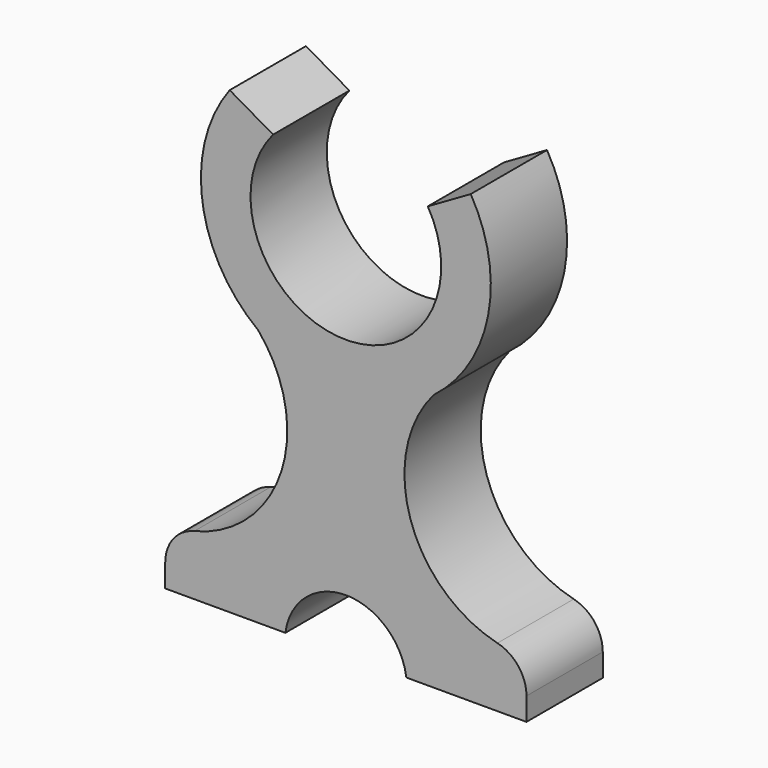
from build123d import *

# Parameters (mm, degrees)
F1_DEPTH = 25
F2_DEPTH = 25


with BuildPart() as f1:
    # F0 (on Front) → F1 (new body)
    with BuildSketch(Plane.XZ):
        with BuildLine():
            Line((-19.074309, 65.558379), (-30.452423, 72.127536))
            ThreePointArc((-30.452423, 72.127536), (-37.629021, 44.100733), (-22.994201, 19.144225))
            ThreePointArc((-22.994201, 19.144225), (-16.907476, -11.440439), (-39.738601, -32.682137))
            ThreePointArc((-39.738601, -32.682137), (-45.225606, -36.222421), (-47.357648, -42.394555))
            Line((-47.357648, -42.394555), (-47.357648, -48.394555))
            Line((-47.357648, -48.394555), (-15.857648, -48.394555))
            ThreePointArc((-15.857648, -48.394555), (0, -34.524107), (15.857648, -48.394555))
            Line((15.857648, -48.394555), (47.357648, -48.394555))
            Line((47.357648, -48.394555), (47.357648, -42.394555))
            ThreePointArc((47.357648, -42.394555), (45.225606, -36.222421), (39.738601, -32.682137))
            ThreePointArc((39.738601, -32.682137), (16.907476, -11.440439), (22.994201, 19.144225))
            ThreePointArc((22.994201, 19.144225), (37.285422, 42.062935), (32.740113, 68.687105))
            Line((32.740113, 68.687105), (21.481118, 62.186721))
            ThreePointArc((21.481118, 62.186721), (-2.07128, 24.483553), (-19.074309, 65.558379))
        make_face()
    extrude(amount=F1_DEPTH)


with BuildPart() as f2:
    # F0 (on Front) → F2 (new body)
    with BuildSketch(Plane.XZ):
        with BuildLine():
            Line((-19.074309, 65.558379), (-30.452423, 72.127536))
            ThreePointArc((-30.452423, 72.127536), (-37.629021, 44.100733), (-22.994201, 19.144225))
            ThreePointArc((-22.994201, 19.144225), (-16.907476, -11.440439), (-39.738601, -32.682137))
            ThreePointArc((-39.738601, -32.682137), (-45.225606, -36.222421), (-47.357648, -42.394555))
            Line((-47.357648, -42.394555), (-47.357648, -48.394555))
            Line((-47.357648, -48.394555), (-15.857648, -48.394555))
            ThreePointArc((-15.857648, -48.394555), (0, -34.524107), (15.857648, -48.394555))
            Line((15.857648, -48.394555), (47.357648, -48.394555))
            Line((47.357648, -48.394555), (47.357648, -42.394555))
            ThreePointArc((47.357648, -42.394555), (45.225606, -36.222421), (39.738601, -32.682137))
            ThreePointArc((39.738601, -32.682137), (16.907476, -11.440439), (22.994201, 19.144225))
            ThreePointArc((22.994201, 19.144225), (37.285422, 42.062935), (32.740113, 68.687105))
            Line((32.740113, 68.687105), (21.481118, 62.186721))
            ThreePointArc((21.481118, 62.186721), (-2.07128, 24.483553), (-19.074309, 65.558379))
        make_face()
    extrude(amount=F2_DEPTH)


solid = Compound([f1.part, f2.part])
